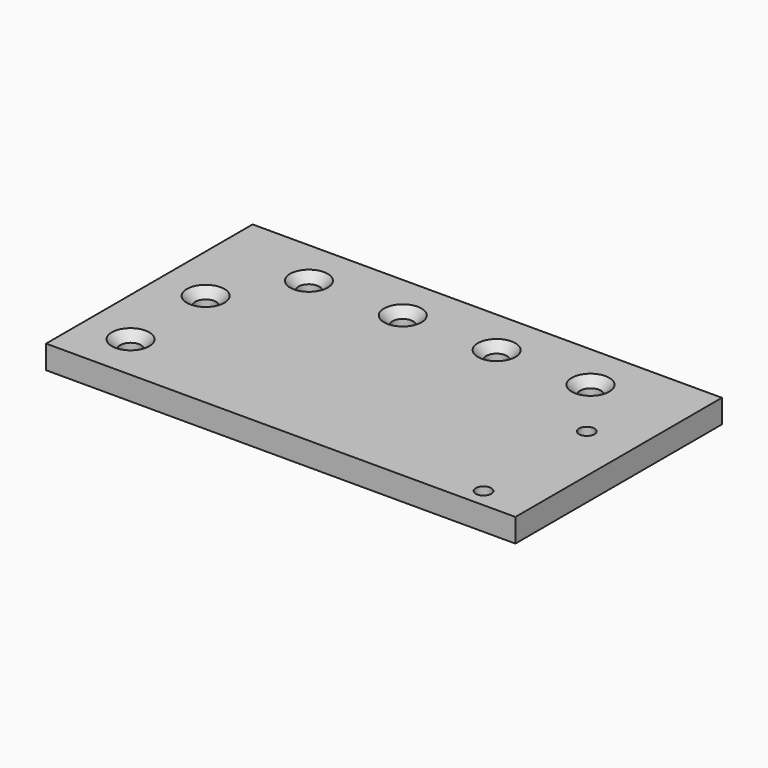
from build123d import *

# Parameters (mm, degrees)
SKETCH_W               = 200
SKETCH_H               = 110
PAD_DEPTH              = 10
HOLE_D                 = 8.8
HOLE_CSINK_D           = 16
HOLE_CSINK_ANGLE       = 90
LINEARPATTERN_COUNT    = 2
LINEARPATTERN_PITCH    = 40
SKETCH002_R            = 3.3
HOLE001_DEPTH          = 10.001
LINEARPATTERN001_COUNT = 2
LINEARPATTERN001_PITCH = 55
HOLE002_D              = 8.8
HOLE002_CSINK_D        = 16
HOLE002_CSINK_ANGLE    = 90
LINEARPATTERN002_COUNT = 4
LINEARPATTERN002_PITCH = 40


with BuildPart() as part:
    # Sketch → Pad (new body)
    with BuildSketch(Plane.XY):
        with Locations((100, 55)):
            Rectangle(SKETCH_W, SKETCH_H)
    extrude(amount=PAD_DEPTH)

    # Hole (through all)
    with Locations(Plane.XY.offset(10)):
        with Locations((20, 20)):
            hole = CounterSinkHole(HOLE_D / 2, HOLE_CSINK_D / 2, counter_sink_angle=HOLE_CSINK_ANGLE)

    # LinearPattern: Hole ×2
    with Locations(*[(0, i * LINEARPATTERN_PITCH, 0) for i in range(1, LINEARPATTERN_COUNT)]):
        add(hole, mode=Mode.SUBTRACT)

    # Sketch002 → Hole001 (cut, through all)
    with BuildSketch(Plane.XY.offset(10)):
        with Locations((180, 63)):
            Circle(SKETCH002_R)
    hole001 = extrude(amount=-HOLE001_DEPTH, mode=Mode.SUBTRACT)

    # LinearPattern001: Hole001 ×2
    with Locations(*[(0, -i * LINEARPATTERN001_PITCH, 0) for i in range(1, LINEARPATTERN001_COUNT)]):
        add(hole001, mode=Mode.SUBTRACT)

    # Hole002 (through all)
    with Locations(Plane.XY.offset(10)):
        with Locations((40, 90)):
            hole002 = CounterSinkHole(HOLE002_D / 2, HOLE002_CSINK_D / 2, counter_sink_angle=HOLE002_CSINK_ANGLE)

    # LinearPattern002: Hole002 ×4
    with Locations(*[(i * LINEARPATTERN002_PITCH, 0, 0) for i in range(1, LINEARPATTERN002_COUNT)]):
        add(hole002, mode=Mode.SUBTRACT)


solid = part.part
